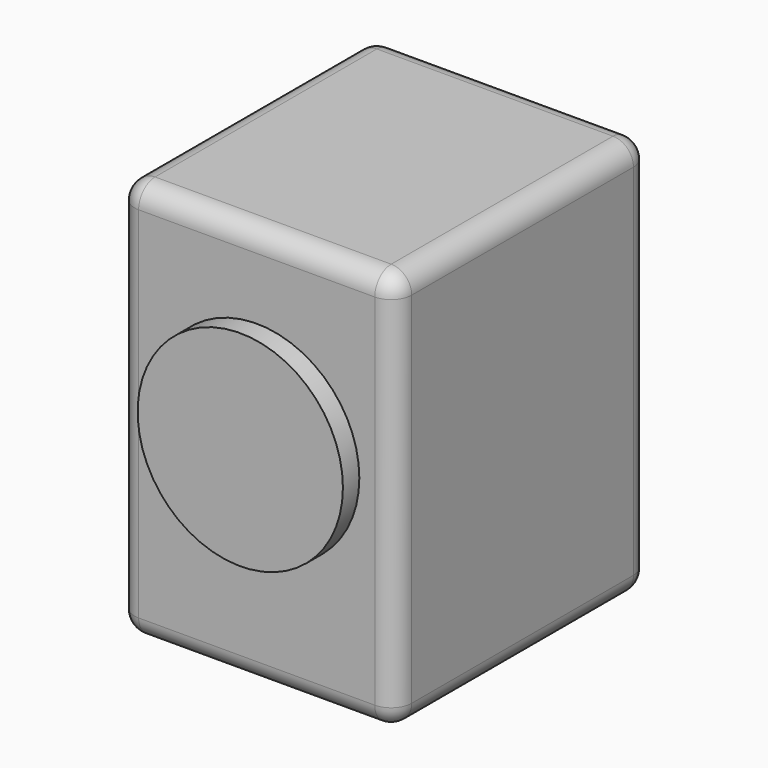
from build123d import *

# Parameters (mm, degrees)
F0_W     = 685.8
F0_H     = 787.4
F1_DEPTH = 990.6
F2_R     = 253.930525
F3_DEPTH = 50.8
F4_R     = 50.8


with BuildPart() as f1:
    # F0 (on Top) → F1 (new body)
    with BuildSketch(Plane.XY):
        Rectangle(F0_W, F0_H)
    extrude(amount=F1_DEPTH)

    # F2 (on face) → F3 (join)
    with BuildSketch(Plane.XZ.offset(393.7)):
        with Locations((0, 532.897532)):
            Circle(F2_R)
    extrude(amount=F3_DEPTH)

    # F4
    f4_edges = [f1.edges().sort_by_distance(p)[0] for p in [
        (-342.9, -393.7, 495.3),
        (0, -393.7, 990.6),
        (342.9, -393.7, 495.3),
        (342.9, 0, 990.6),
        (0, 393.7, 990.6),
        (-342.9, 0, 990.6),
        (342.9, 393.7, 495.3),
        (342.9, 0, 0),
        (-342.9, 393.7, 495.3),
        (-342.9, 0, 0),
        (0, -393.7, 0),
        (0, 393.7, 0),
    ]]
    fillet(f4_edges, radius=F4_R)


solid = f1.part
